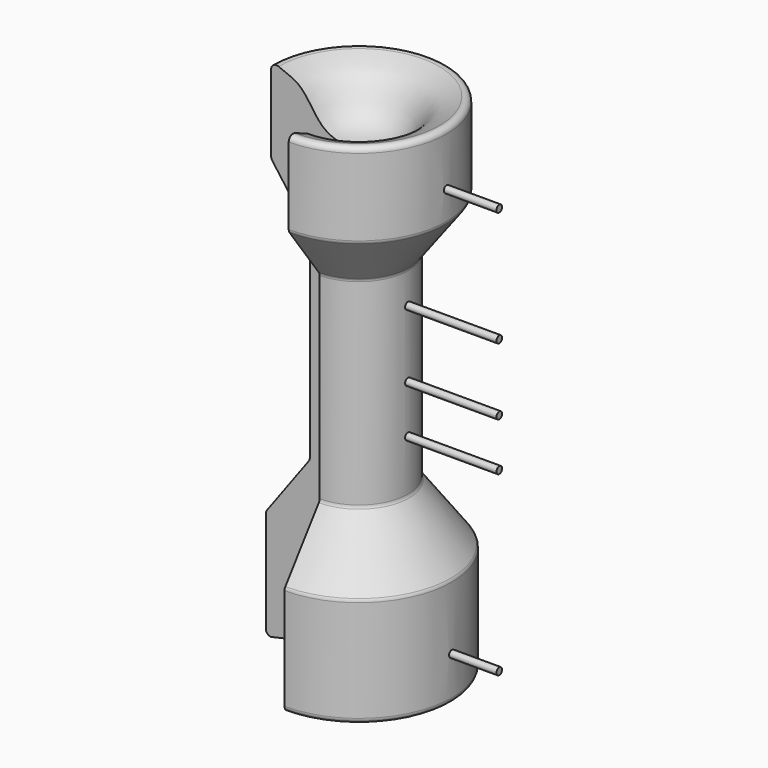
from build123d import *

# Parameters (mm, degrees)
F1_ANGLE = 270
F2_R     = 1.2745464221
F2_R_2   = 1.2552824714
F2_R_3   = 1.6322190303
F2_R_4   = 0.8880093631
F2_R_5   = 0.7381695648
F2_R_6   = 0.9012440071
F2_R_7   = 0.8549916488
F2_R_8   = 0.6863607266
F2_R_9   = 0.6498929306
F2_R_10  = 0.2758645629
F2_R_11  = 0.2848262521
F2_R_12  = 0.3956072165
F2_R_13  = 0.1715613473
F2_R_14  = 0.3493530521
F2_R_15  = 0.1932104592
F2_R_16  = 0.25277551
F2_R_17  = 0.2470281442
F2_R_18  = 0.189466877
F2_R_19  = 0.1894625306
F2_R_20  = 0.2160172465
F2_R_21  = 0.3410318833
F2_R_22  = 0.2092722247
F2_R_23  = 0.1515702747
F2_R_24  = 0.2040596992
F2_R_25  = 0.2652492155
F2_R_26  = 0.1629812297
F2_R_27  = 0.2638909269
F2_R_28  = 0.3136161778
F2_R_29  = 0.1562338053
F2_R_30  = 0.1715608928
F2_R_31  = 0.2995627114
F2_R_32  = 0.1289519235
F2_R_33  = 0.1538380187
F5_R     = 1
F6_DEPTH = 30


with BuildPart() as f1:
    # F0 (on Front) → F1 (revolve)
    with BuildSketch(Plane.XZ):
        with BuildLine():
            Line((-26.5, 30.5078862585), (-26.5, 1.5))
            ThreePointArc((-26.5, 1.5), (-26.0606601718, 0.4393398282), (-25, 0))
            add(Edge.make_bspline(
                [(-25, 0), (-21.8230657675, 0.652944704), (-15.6305798646, 1.925665692), (-8.3183493159, 6.856323911), (-2.7537531786, 7.6060234397), (0, 7.977027446)],
                knots=[0, 0, 0, 0, 0.3473277747, 0.6770119213, 1, 1, 1, 1], degree=3))
            Line((0, 7.977027446), (0, 130))
            add(Edge.make_bspline(
                [(-22.8977772498, 143.7990468747), (-20.9914386602, 142.9633793343), (-15.1584438549, 141.379212354), (-11.1858827412, 130.3900782292), (-2.2585186695, 129.8678209624), (0, 130)],
                knots=[0.0910696974, 0.0910696974, 0.0910696974, 0.0910696974, 0.3150517448, 0.6731890645, 1, 1, 1, 1], degree=3))
            ThreePointArc((-22.8977772498, 143.7990468747), (-24.3205686671, 143.6809004324), (-25, 142.4252463946))
            Line((-25, 142.4252463946), (-25, 120.4910557142))
            ThreePointArc((-25, 120.4910557142), (-24.9255544957, 120.0243712602), (-24.7096074938, 119.6040102188))
            Line((-24.7096074938, 119.6040102188), (-14.2903925062, 105.3959897812))
            ThreePointArc((-14.2903925062, 105.3959897812), (-14.0744455043, 104.9756287398), (-14, 104.5089442858))
            Line((-14, 104.5089442858), (-14, 48.4921137415))
            ThreePointArc((-14, 48.4921137415), (-14.0747430445, 48.0245213862), (-14.291523481, 47.6035280658))
            Line((-14.291523481, 47.6035280658), (-26.208476519, 31.3964719342))
            ThreePointArc((-26.208476519, 31.3964719342), (-26.4252569555, 30.9754786138), (-26.5, 30.5078862585))
        make_face()
    revolve(axis=Axis((0, 0, 68.988513723), (0, 0, -1)), revolution_arc=F1_ANGLE)

    # F2 (on Right) → F3 (revolve, cut)
    with BuildSketch(Plane.YZ):
        with Locations((-2.4987708312, 126.6380101442)):
            Circle(F2_R)
        with Locations((-6.0675018467, 125.4909187555)):
            Circle(F2_R_2)
        with Locations((-3.9007721934, 121.6672807932)):
            Circle(F2_R_3)
        with Locations((-7.941677998, 121.6672807932)):
            Circle(F2_R_4)
        with Locations((-7.941677998, 118.0985420942)):
            Circle(F2_R_5)
        with Locations((-3.3909534104, 118.8632845879)):
            Circle(F2_R_6)
        with Locations((-5.4302285425, 118.8632845879)):
            Circle(F2_R_7)
        with Locations((-1.8614974106, 116.8240010738)):
            Circle(F2_R_8)
        with Locations((-1.8614974106, 124.2163777351)):
            Circle(F2_R_9)
        with Locations((-4.1374247521, 116.4474487305)):
            Circle(F2_R_10)
        with Locations((-4.8072761856, 116.876155138)):
            Circle(F2_R_11)
        with Locations((-3.3336030319, 115.4560670257)):
            Circle(F2_R_12)
        with Locations((-1.2972556287, 121.029227972)):
            Circle(F2_R_13)
        with Locations((-5.9594195336, 122.9316145182)):
            Circle(F2_R_14)
        with Locations((-8.7460009381, 123.7890124321)):
            Circle(F2_R_15)
        with Locations((-10.7823479921, 120.9220588207)):
            Circle(F2_R_16)
        with Locations((-7.888590917, 120.3593760729)):
            Circle(F2_R_17)
        with Locations((-6.3881245442, 121.1899966002)):
            Circle(F2_R_18)
        with Locations((-6.4417123795, 120.1182305813)):
            Circle(F2_R_19)
        with Locations((-6.5488885157, 117.9211139679)):
            Circle(F2_R_20)
        with Locations((-6.1469781213, 116.5010333061)):
            Circle(F2_R_21)
        with Locations((-8.2637076266, 116.1527186632)):
            Circle(F2_R_22)
        with Locations((-6.2541542575, 115.4292747378)):
            Circle(F2_R_23)
        with Locations((-4.2713950388, 115.2149215341)):
            Circle(F2_R_24)
        with Locations((-2.610163996, 114.2771318555)):
            Circle(F2_R_25)
        with Locations((-4.7268937342, 113.7144565582)):
            Circle(F2_R_26)
        with Locations((-6.6024768166, 113.7680411339)):
            Circle(F2_R_27)
        with Locations((-7.4866805226, 114.3843084574)):
            Circle(F2_R_28)
        with Locations((-9.3890577555, 115.1881292462)):
            Circle(F2_R_29)
        with Locations((-10.6751723215, 117.385238409)):
            Circle(F2_R_30)
        with Locations((-9.7105866298, 118.9928799868)):
            Circle(F2_R_31)
        with Locations((-10.0321145728, 123.4942823648)):
            Circle(F2_R_10)
        with Locations((-8.0834338441, 125.4664510489)):
            Circle(F2_R_32)
        with Locations((-7.6005961746, 124.7690171003)):
            Circle(F2_R_33)
    revolve(axis=Axis((0, 0, 68.988513723), (0, 0, -1)), mode=Mode.SUBTRACT)

    # F5 (on offset) → F6 (join)
    with BuildSketch(Plane.YZ.offset(40)):
        with Locations((0, 12.5356242061)):
            Circle(F5_R)
        with Locations((0, 62.9958212376)):
            Circle(F5_R)
        with Locations((0, 76.714374125)):
            Circle(F5_R)
        with Locations((0, 95.791734755)):
            Circle(F5_R)
        with Locations((0, 128.5876482725)):
            Circle(F5_R)
    extrude(amount=-F6_DEPTH)


solid = f1.part
